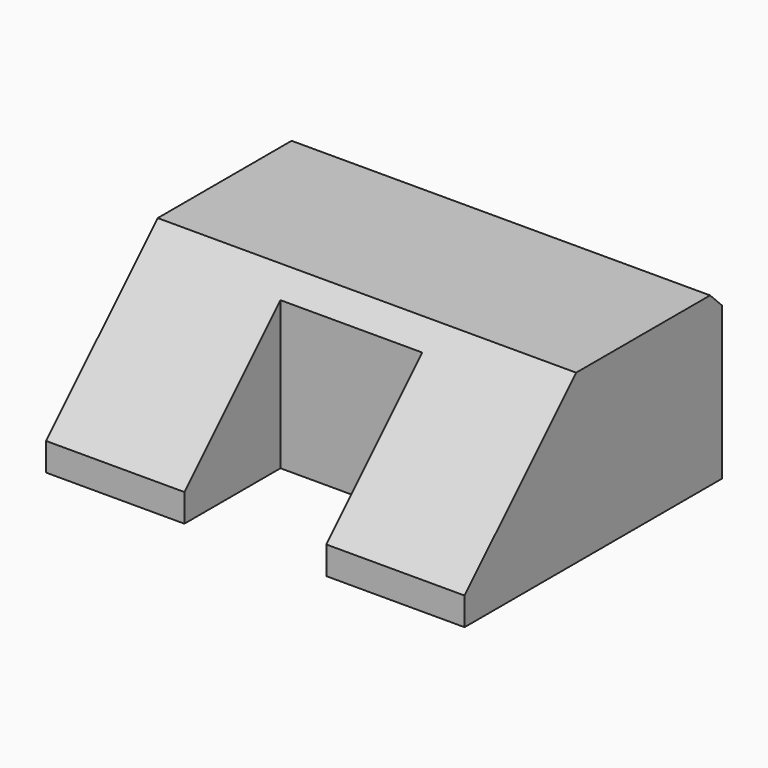
from build123d import *

# Parameters (mm, degrees)
SKETCH_W             = 3.2
SKETCH_H             = 3
PAD_DEPTH            = 1.2
CHAMFER_SIZE         = 1
SKETCH001_W          = 2.02194
SKETCH001_H          = 1.017
SKETCH001_W_2        = 1.827716
SKETCH001_H_2        = 1.145398
POCKET_DEPTH         = 5
BODY_PLACEMENT_ANGLE = 90


with BuildPart() as part:
    # Sketch → Pad (new body)
    with BuildSketch(Plane.XY):
        Rectangle(SKETCH_W, SKETCH_H)
    extrude(amount=PAD_DEPTH)

    # Chamfer
    chamfer_edges = [part.edges().sort_by_distance(p)[0] for p in [
        (-1.6, 0, 1.2),
        (1.6, 0, 1.2),
    ]]
    chamfer(chamfer_edges, length=CHAMFER_SIZE)

    # Sketch001 (on Face5 of Chamfer) → Pocket (cut)
    with BuildSketch(Plane.XY.offset(1.2)):
        with Locations((-1.75, 0)):
            Rectangle(SKETCH001_W, SKETCH001_H)
        with Locations((1.62, 1.14)):
            Rectangle(SKETCH001_W_2, SKETCH001_H_2)
        with Locations((1.62, -1.14)):
            Rectangle(SKETCH001_W_2, SKETCH001_H_2)
    extrude(amount=-POCKET_DEPTH, mode=Mode.SUBTRACT)


with BuildPart() as part_1:
    # Body placement: moved
    add(part.part.rotate(Axis((0, 0, 0), (0, 0, 1)), BODY_PLACEMENT_ANGLE))


solid = part_1.part
